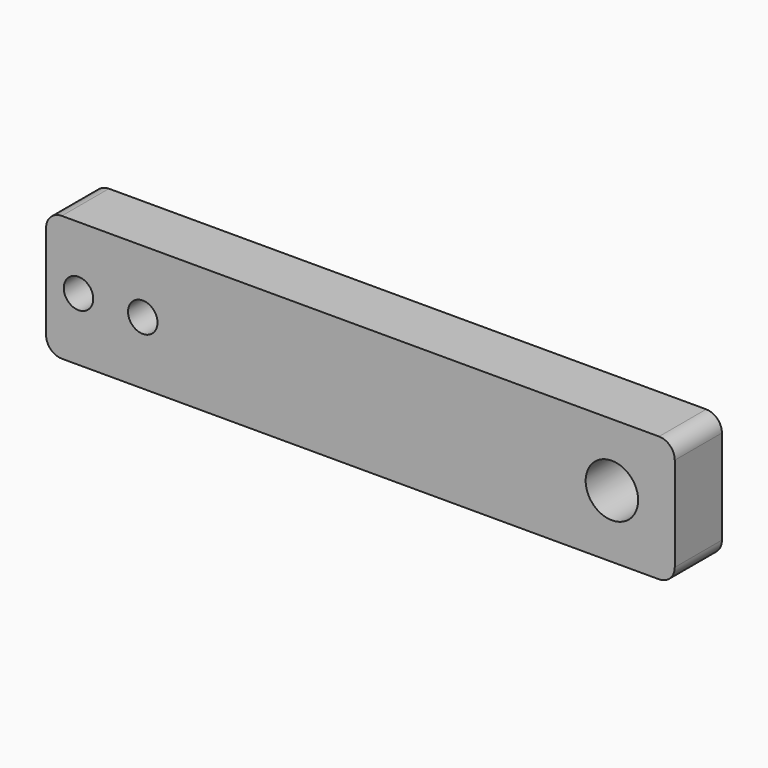
from build123d import *

# Parameters (mm, degrees)
F0_W     = 50.8
F0_H     = 10.16
F0_R     = 1.190625
F0_R_2   = 2.1209
F1_DEPTH = 4.7625
F2_R     = 1.27


with BuildPart() as f1:
    # F0 (on Front) → F1 (new body)
    with BuildSketch(Plane.XZ):
        Rectangle(F0_W, F0_H)
        with Locations((-22.78069, 0)):
            Circle(F0_R, mode=Mode.SUBTRACT)
        with Locations((-17.586241, 0)):
            Circle(F0_R, mode=Mode.SUBTRACT)
        with Locations((20.32, 0)):
            Circle(F0_R_2, mode=Mode.SUBTRACT)
    extrude(amount=F1_DEPTH)

    # F2
    f2_edges = [f1.edges().sort_by_distance(p)[0] for p in [
        (-25.4, -2.38125, 5.08),
        (25.4, -2.38125, 5.08),
        (25.4, -2.38125, -5.08),
        (-25.4, -2.38125, -5.08),
    ]]
    fillet(f2_edges, radius=F2_R)


solid = f1.part
